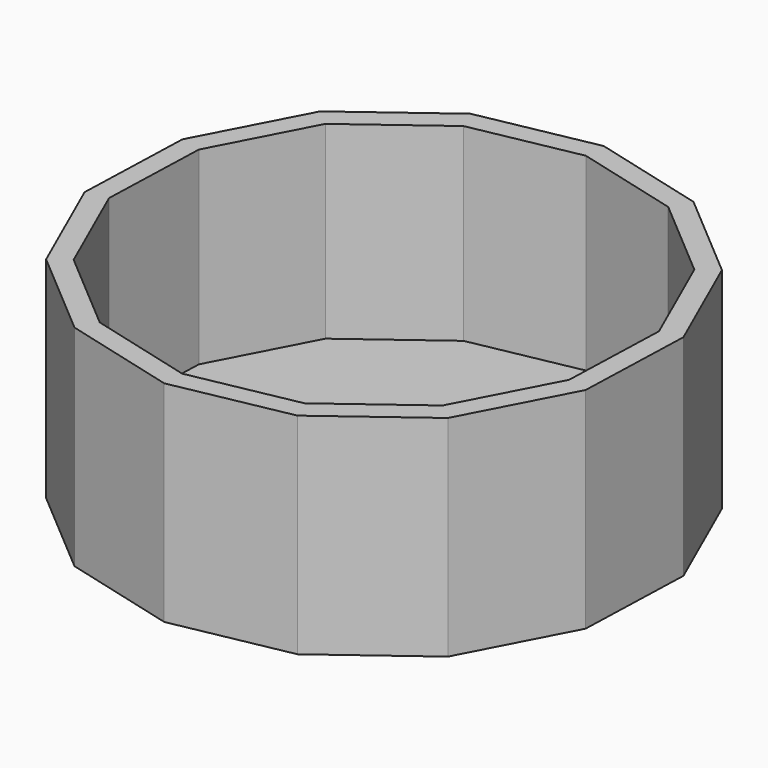
from build123d import *

# Parameters (mm, degrees)
F1_DEPTH = 25
F2_T     = -2.5


with BuildPart() as f1:
    # F0 (on Top) → F1 (new body)
    with BuildSketch(Plane.XY):
        Polygon((-12.694525, 28.738617), (-23.90659, 20.384651), (-30.383662, 7.993256), (-30.842877, -5.981303), (-25.193282, -18.77119), (-14.553849, -27.843214), (-1.031847, -31.400547), (12.694525, -28.738617), (23.90659, -20.384651), (30.383662, -7.993256), (30.842877, 5.981303), (25.193282, 18.77119), (14.553849, 27.843214), (1.031847, 31.400547), align=None)
    extrude(amount=F1_DEPTH)

    # F2
    f2_openings = [f1.faces().sort_by_distance(p)[0] for p in [
        (0, 0, 25),
    ]]
    offset(amount=F2_T, openings=f2_openings)


solid = f1.part
